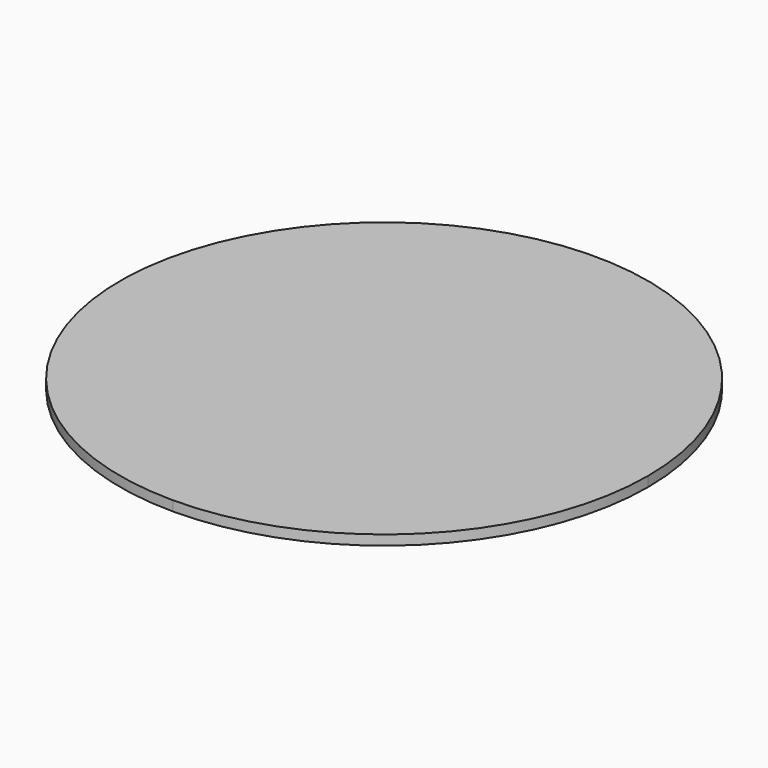
from build123d import *

# Parameters (mm, degrees)
F1_DEPTH = 9.525


with BuildPart() as f1:
    # F0 (on Top) → F1 (new body)
    with BuildSketch(Plane.XY):
        with BuildLine():
            ThreePointArc((0, -254), (179.605122, -179.605122), (254, 0))
            ThreePointArc((254, 0), (-179.605122, 179.605122), (0, -254))
        make_face()
    extrude(amount=F1_DEPTH)


solid = f1.part
